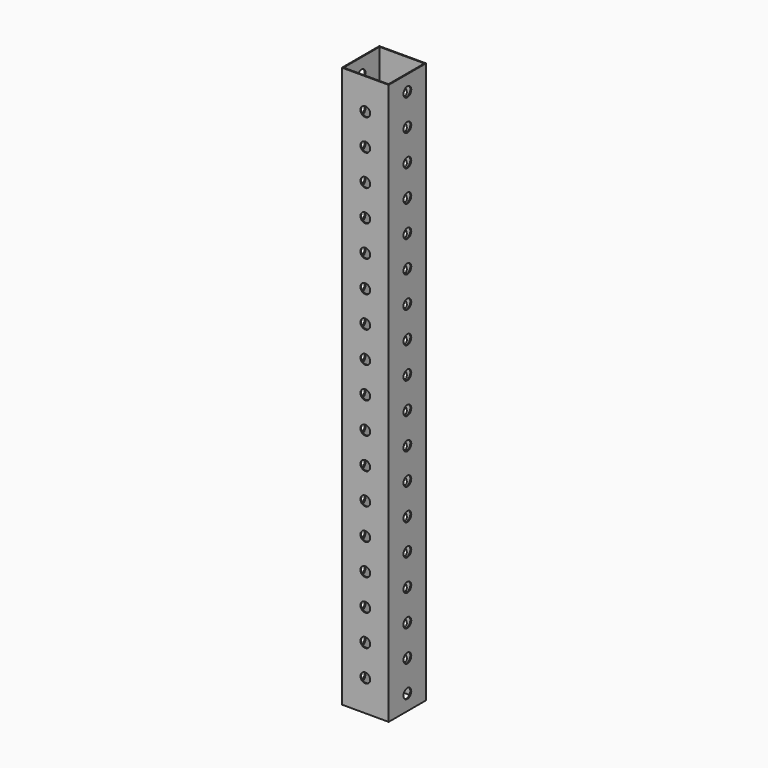
from build123d import *

# Parameters (mm, degrees)
F0_W       = 76.2
F0_H       = 76.2
F0_W_2     = 73.152
F0_H_2     = 73.152
F1_DEPTH   = 914.4
F6_D       = 15.875
F6_ON_F3_D = 15.875


with BuildPart() as f1:
    # F0 (on Top) → F1 (new body)
    with BuildSketch(Plane.XY):
        Rectangle(F0_W, F0_H)
        Rectangle(F0_W_2, F0_H_2, mode=Mode.SUBTRACT)
    extrude(amount=F1_DEPTH)

    # F6 (through all)
    with Locations(Plane.YZ.offset(76.2)):
        with Locations((0, 25.4), (0, 76.2), (0, 127), (0, 177.8), (0, 228.6), (0, 279.4), (0, 330.2), (0, 381), (0, 431.8), (0, 482.6), (0, 533.4), (0, 584.2), (0, 635), (0, 685.8), (0, 736.6), (0, 787.4), (0, 838.2), (0, 889)):
            Hole(F6_D / 2)

    # F6 on F3 (through all)
    with Locations(Plane.XZ.offset(76.2)):
        with Locations((0, 863.6), (0, 812.8), (0, 762), (0, 711.2), (0, 660.4), (0, 609.6), (0, 558.8), (0, 508), (0, 457.2), (0, 406.4), (0, 355.6), (0, 304.8), (0, 254), (0, 203.2), (0, 152.4), (0, 101.6), (0, 50.8)):
            Hole(F6_ON_F3_D / 2)


solid = f1.part
